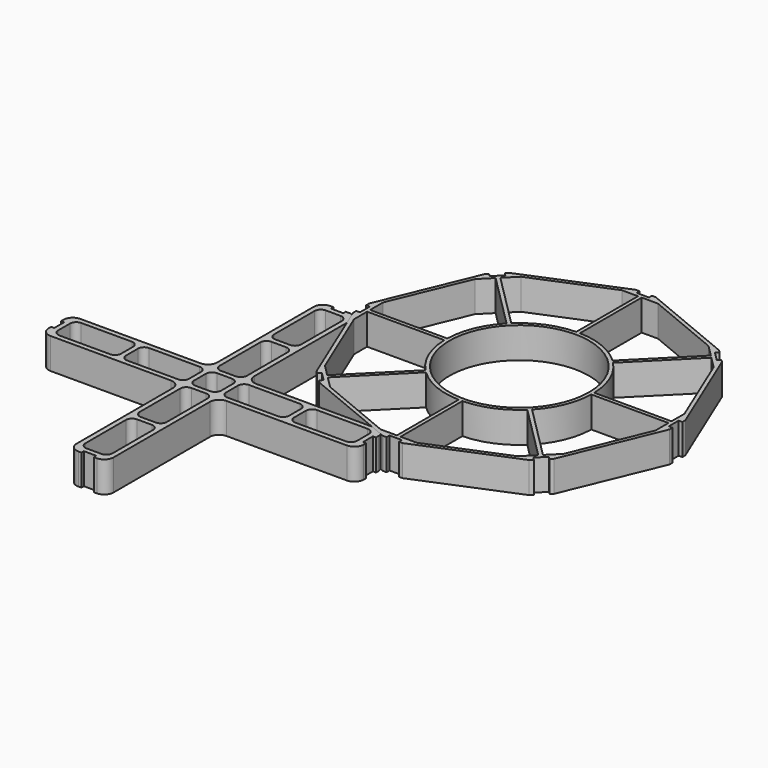
from build123d import *

# Parameters (mm, degrees)
PAD_DEPTH    = 10
SKETCH001_R  = 22.607562
PAD001_DEPTH = 10


with BuildPart() as cross:
    # Sketch → Pad (new body)
    with BuildSketch(Plane.XY):
        with BuildLine():
            ThreePointArc((-3, 51), (-5.12132, 50.12132), (-6, 48))
            Line((-6, 9), (-6, 48))
            ThreePointArc((-9, 6), (-6.87868, 6.87868), (-6, 9))
            Line((-48, 6), (-9, 6))
            ThreePointArc((-48, 6), (-50.12132, 5.12132), (-51, 3))
            Line((-51, 2), (-51, 3))
            Line((-50, 2), (-51, 2))
            Line((-50, -2), (-50, 2))
            Line((-51, -2), (-50, -2))
            Line((-51, -3), (-51, -2))
            ThreePointArc((-51, -3), (-50.12132, -5.12132), (-48, -6))
            Line((-9, -6), (-48, -6))
            ThreePointArc((-6, -9), (-6.87868, -6.87868), (-9, -6))
            Line((-6, -48), (-6, -9))
            ThreePointArc((-6, -48), (-5.12132, -50.12132), (-3, -51))
            Line((-2, -51), (-3, -51))
            Line((-2, -50), (-2, -51))
            Line((2, -50), (-2, -50))
            Line((2, -51), (2, -50))
            Line((3, -51), (2, -51))
            ThreePointArc((3, -51), (5.12132, -50.12132), (6, -48))
            Line((6, -9), (6, -48))
            ThreePointArc((9, -6), (6.87868, -6.87868), (6, -9))
            Line((48, -6), (9, -6))
            ThreePointArc((48, -6), (50.12132, -5.12132), (51, -3))
            Line((51, -2), (51, -3))
            Line((50, -2), (51, -2))
            Line((50, 2), (50, -2))
            Line((51, 2), (50, 2))
            Line((51, 3), (51, 2))
            ThreePointArc((51, 3), (50.12132, 5.12132), (48, 6))
            Line((9, 6), (48, 6))
            ThreePointArc((6, 9), (6.87868, 6.87868), (9, 6))
            Line((6, 48), (6, 9))
            ThreePointArc((6, 48), (5.12132, 50.12132), (3, 51))
            Line((2, 51), (3, 51))
            Line((2, 50), (2, 51))
            Line((-2, 50), (2, 50))
            Line((-2, 51), (-2, 50))
            Line((-3, 51), (-2, 51))
        make_face()
        with BuildLine():
            ThreePointArc((-2.4, 48.4), (-3.814214, 47.814214), (-4.4, 46.4))
            Line((-4.4, 30), (-4.4, 46.4))
            ThreePointArc((-4.4, 30), (-3.814214, 28.585786), (-2.4, 28))
            Line((2.4, 28), (-2.4, 28))
            ThreePointArc((2.4, 28), (3.814214, 28.585786), (4.4, 30))
            Line((4.4, 46.4), (4.4, 30))
            ThreePointArc((4.4, 46.4), (3.814214, 47.814214), (2.4, 48.4))
            Line((-2.4, 48.4), (2.4, 48.4))
        make_face(mode=Mode.SUBTRACT)
        with BuildLine():
            ThreePointArc((30, 4.4), (28.585786, 3.814214), (28, 2.4))
            Line((28, -2.4), (28, 2.4))
            ThreePointArc((28, -2.4), (28.585786, -3.814214), (30, -4.4))
            Line((46.4, -4.4), (30, -4.4))
            ThreePointArc((46.4, -4.4), (47.814214, -3.814214), (48.4, -2.4))
            Line((48.4, 2.4), (48.4, -2.4))
            ThreePointArc((48.4, 2.4), (47.814214, 3.814214), (46.4, 4.4))
            Line((30, 4.4), (46.4, 4.4))
        make_face(mode=Mode.SUBTRACT)
        with BuildLine():
            ThreePointArc((-2.4, -28), (-3.814214, -28.585786), (-4.4, -30))
            Line((-4.4, -46.4), (-4.4, -30))
            ThreePointArc((-4.4, -46.4), (-3.814214, -47.814214), (-2.4, -48.4))
            Line((2.4, -48.4), (-2.4, -48.4))
            ThreePointArc((2.4, -48.4), (3.814214, -47.814214), (4.4, -46.4))
            Line((4.4, -30), (4.4, -46.4))
            ThreePointArc((4.4, -30), (3.814214, -28.585786), (2.4, -28))
            Line((-2.4, -28), (2.4, -28))
        make_face(mode=Mode.SUBTRACT)
        with BuildLine():
            ThreePointArc((-46.4, 4.4), (-47.814214, 3.814214), (-48.4, 2.4))
            Line((-48.4, -2.4), (-48.4, 2.4))
            ThreePointArc((-48.4, -2.4), (-47.814214, -3.814214), (-46.4, -4.4))
            Line((-30, -4.4), (-46.4, -4.4))
            ThreePointArc((-30, -4.4), (-28.585786, -3.814214), (-28, -2.4))
            Line((-28, 2.4), (-28, -2.4))
            ThreePointArc((-28, 2.4), (-28.585786, 3.814214), (-30, 4.4))
            Line((-46.4, 4.4), (-30, 4.4))
        make_face(mode=Mode.SUBTRACT)
        with BuildLine():
            ThreePointArc((-2.4, 4.4), (-3.814214, 3.814214), (-4.4, 2.4))
            Line((-4.4, -2.4), (-4.4, 2.4))
            ThreePointArc((-4.4, -2.4), (-3.814214, -3.814214), (-2.4, -4.4))
            Line((2.4, -4.4), (-2.4, -4.4))
            ThreePointArc((2.4, -4.4), (3.814214, -3.814214), (4.4, -2.4))
            Line((4.4, 2.4), (4.4, -2.4))
            ThreePointArc((4.4, 2.4), (3.814214, 3.814214), (2.4, 4.4))
            Line((-2.4, 4.4), (2.4, 4.4))
        make_face(mode=Mode.SUBTRACT)
        with BuildLine():
            ThreePointArc((-24.4, 4.4), (-25.814214, 3.814214), (-26.4, 2.4))
            Line((-26.4, -2.4), (-26.4, 2.4))
            ThreePointArc((-26.4, -2.4), (-25.814214, -3.814214), (-24.4, -4.4))
            Line((-8, -4.4), (-24.4, -4.4))
            ThreePointArc((-8, -4.4), (-6.585786, -3.814214), (-6, -2.4))
            Line((-6, 2.4), (-6, -2.4))
            ThreePointArc((-6, 2.4), (-6.585786, 3.814214), (-8, 4.4))
            Line((-24.4, 4.4), (-8, 4.4))
        make_face(mode=Mode.SUBTRACT)
        with BuildLine():
            ThreePointArc((8, 4.4), (6.585786, 3.814214), (6, 2.4))
            Line((6, -2.4), (6, 2.4))
            ThreePointArc((6, -2.4), (6.585786, -3.814214), (8, -4.4))
            Line((24.4, -4.4), (8, -4.4))
            ThreePointArc((24.4, -4.4), (25.814214, -3.814214), (26.4, -2.4))
            Line((26.4, 2.4), (26.4, -2.4))
            ThreePointArc((26.4, 2.4), (25.814214, 3.814214), (24.4, 4.4))
            Line((8, 4.4), (24.4, 4.4))
        make_face(mode=Mode.SUBTRACT)
        with BuildLine():
            ThreePointArc((-2.4, -6), (-3.814214, -6.585786), (-4.4, -8))
            Line((-4.4, -24.4), (-4.4, -8))
            ThreePointArc((-4.4, -24.4), (-3.814214, -25.814214), (-2.4, -26.4))
            Line((2.4, -26.4), (-2.4, -26.4))
            ThreePointArc((2.4, -26.4), (3.814214, -25.814214), (4.4, -24.4))
            Line((4.4, -8), (4.4, -24.4))
            ThreePointArc((4.4, -8), (3.814214, -6.585786), (2.4, -6))
            Line((-2.4, -6), (2.4, -6))
        make_face(mode=Mode.SUBTRACT)
        with BuildLine():
            ThreePointArc((-2.4, 26.4), (-3.814214, 25.814214), (-4.4, 24.4))
            Line((-4.4, 8), (-4.4, 24.4))
            ThreePointArc((-4.4, 8), (-3.814214, 6.585786), (-2.4, 6))
            Line((2.4, 6), (-2.4, 6))
            ThreePointArc((2.4, 6), (3.814214, 6.585786), (4.4, 8))
            Line((4.4, 24.4), (4.4, 8))
            ThreePointArc((4.4, 24.4), (3.814214, 25.814214), (2.4, 26.4))
            Line((-2.4, 26.4), (2.4, 26.4))
        make_face(mode=Mode.SUBTRACT)
    extrude(amount=PAD_DEPTH)


with BuildPart() as obj1:
    # Sketch001 → Pad001 (new body)
    with BuildSketch(Plane.XY):
        Polygon((53, 105), (57, 105), (57, 106.2), (58.2, 106.2), (88.941125, 93.466609), (89.789654, 92.618081), (88.941125, 91.769553), (91.769553, 88.941125), (92.618081, 89.789654), (93.466609, 88.941125), (106.2, 58.2), (106.2, 57), (105, 57), (105, 53), (106.2, 53), (106.2, 51.8), (93.466609, 21.058874), (92.618081, 20.210346), (91.769553, 21.058874), (88.941125, 18.230447), (89.789654, 17.381919), (88.941125, 16.533391), (58.2, 3.8), (57, 3.8), (57, 5), (53, 5), (53, 3.8), (51.8, 3.8), (21.058875, 16.533391), (20.210346, 17.381919), (21.058875, 18.230447), (18.230447, 21.058875), (17.381919, 20.210346), (16.533391, 21.058875), (3.8, 51.8), (3.8, 53), (5, 53), (5, 57), (3.8, 57), (3.8, 58.2), (16.533391, 88.941126), (17.381919, 89.789654), (18.230447, 88.941126), (21.058875, 91.769553), (20.210346, 92.618081), (21.058875, 93.466609), (51.8, 106.2), (53, 106.2), align=None)
        with Locations((55, 55)):
            Circle(SKETCH001_R, mode=Mode.SUBTRACT)
        with BuildLine():
            Line((24.635676, 93.649298), (49.141639, 103.8))
            Line((49.141639, 103.8), (54.4, 103.8))
            Line((54.4, 103.8), (54.4, 78.8))
            ThreePointArc((54.4, 78.8), (45.889241, 76.995319), (38.595123, 72.253405))
            Line((20.917453, 89.931075), (38.595123, 72.253405))
            Line((20.917453, 89.931075), (24.635676, 93.649298))
        make_face(mode=Mode.SUBTRACT)
        with BuildLine():
            Line((16.350702, 85.364324), (6.2, 60.858361))
            Line((6.2, 60.858361), (6.2, 55.6))
            Line((6.2, 55.6), (31.2, 55.6))
            ThreePointArc((37.746595, 71.404877), (33.004681, 64.110759), (31.2, 55.6))
            Line((20.068925, 89.082547), (37.746595, 71.404877))
            Line((16.350702, 85.364324), (20.068925, 89.082547))
        make_face(mode=Mode.SUBTRACT)
        with BuildLine():
            Line((6.2, 49.141639), (16.350702, 24.635676))
            Line((16.350702, 24.635676), (20.068925, 20.917453))
            Line((20.068925, 20.917453), (37.746595, 38.595123))
            ThreePointArc((31.2, 54.4), (33.004681, 45.889241), (37.746595, 38.595123))
            Line((6.2, 54.4), (31.2, 54.4))
            Line((6.2, 54.4), (6.2, 49.141639))
        make_face(mode=Mode.SUBTRACT)
        with BuildLine():
            Line((24.635676, 16.350702), (49.141639, 6.2))
            Line((49.141639, 6.2), (54.4, 6.2))
            Line((54.4, 6.2), (54.4, 31.2))
            ThreePointArc((38.595123, 37.746595), (45.889241, 33.004681), (54.4, 31.2))
            Line((20.917453, 20.068925), (38.595123, 37.746595))
            Line((20.917453, 20.068925), (24.635676, 16.350702))
        make_face(mode=Mode.SUBTRACT)
        with BuildLine():
            Line((60.858361, 6.2), (85.364324, 16.350702))
            Line((85.364324, 16.350702), (89.082547, 20.068925))
            Line((89.082547, 20.068925), (71.404877, 37.746595))
            ThreePointArc((55.6, 31.2), (64.110759, 33.004681), (71.404877, 37.746595))
            Line((55.6, 6.2), (55.6, 31.2))
            Line((55.6, 6.2), (60.858361, 6.2))
        make_face(mode=Mode.SUBTRACT)
        with BuildLine():
            Line((103.8, 49.141639), (93.649298, 24.635676))
            Line((89.931075, 20.917453), (93.649298, 24.635676))
            Line((89.931075, 20.917453), (72.253405, 38.595123))
            ThreePointArc((72.253405, 38.595123), (76.995319, 45.889241), (78.8, 54.4))
            Line((103.8, 54.4), (78.8, 54.4))
            Line((103.8, 54.4), (103.8, 49.141639))
        make_face(mode=Mode.SUBTRACT)
        with BuildLine():
            Line((103.8, 60.858361), (93.649298, 85.364324))
            Line((93.649298, 85.364324), (89.931075, 89.082547))
            Line((89.931075, 89.082547), (72.253405, 71.404877))
            ThreePointArc((78.8, 55.6), (76.995319, 64.110759), (72.253405, 71.404877))
            Line((103.8, 55.6), (78.8, 55.6))
            Line((103.8, 60.858361), (103.8, 55.6))
        make_face(mode=Mode.SUBTRACT)
        with BuildLine():
            Line((60.858361, 103.8), (85.364324, 93.649298))
            Line((89.082547, 89.931075), (85.364324, 93.649298))
            Line((89.082547, 89.931075), (71.404877, 72.253405))
            ThreePointArc((71.404877, 72.253405), (64.110759, 76.995319), (55.6, 78.8))
            Line((55.6, 103.8), (55.6, 78.8))
            Line((55.6, 103.8), (60.858361, 103.8))
        make_face(mode=Mode.SUBTRACT)
    extrude(amount=PAD001_DEPTH)


solid = Compound([cross.part, obj1.part])
